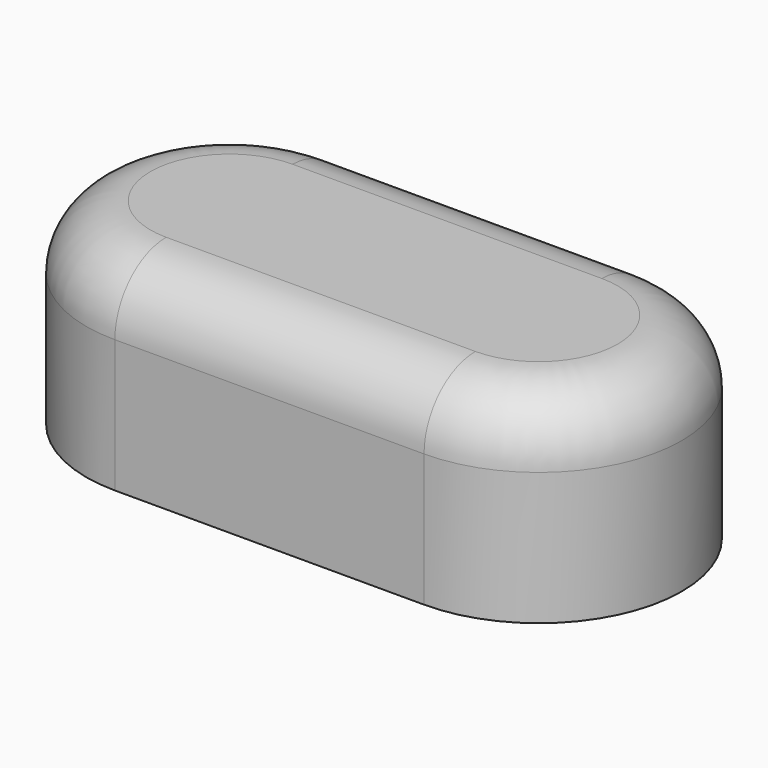
from build123d import *

# Parameters (mm, degrees)
F1_DEPTH      = 1.29
F1_DEPTH_BACK = 2.67
F2_R          = 1.29


with BuildPart() as f1:
    # F0 (on Top) → F1 (new body, two sides)
    with BuildSketch(Plane.XY) as f1_sk:
        with BuildLine():
            Line((3.11, 2.88), (-3.11, 2.88))
            ThreePointArc((-3.11, 2.88), (-5.99, 0), (-3.11, -2.88))
            Line((-3.11, -2.88), (3.11, -2.88))
            ThreePointArc((3.11, -2.88), (5.99, 0), (3.11, 2.88))
        make_face()
    extrude(amount=F1_DEPTH)
    extrude(f1_sk.sketch, amount=-F1_DEPTH_BACK)

    # F2
    f2_edges = [f1.edges().sort_by_distance(p)[0] for p in [
        (5.99, 0, 1.29),
        (0, 2.88, 1.29),
        (0, -2.88, 1.29),
        (-5.99, 0, 1.29),
    ]]
    fillet(f2_edges, radius=F2_R)


solid = f1.part
